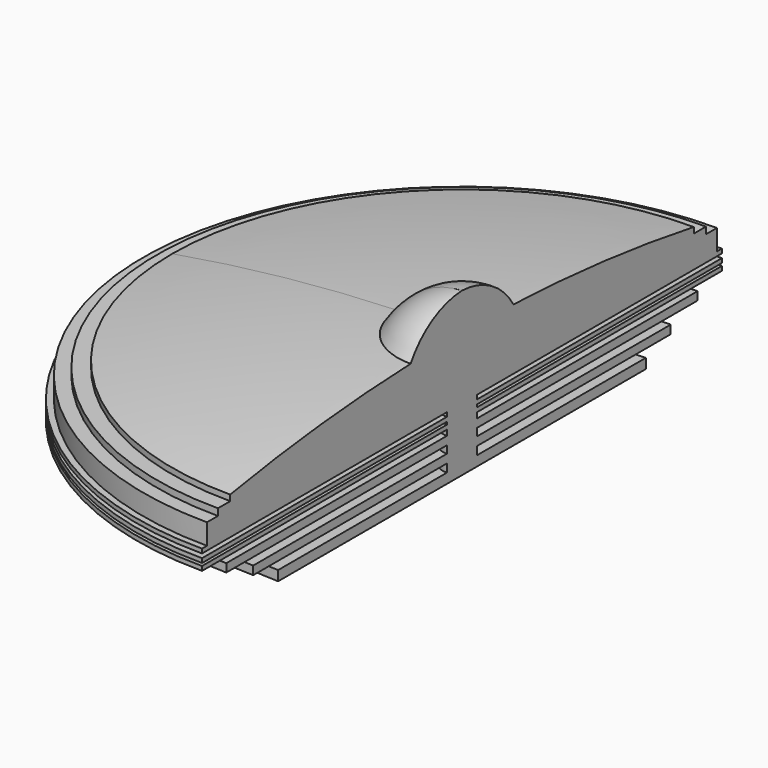
from build123d import *

# Parameters (mm, degrees)
F1_ANGLE = 180


with BuildPart() as f1:
    # F0 (on Front) → F1 (revolve, symmetric)
    with BuildSketch(Plane.XZ) as f1_sk:
        with BuildLine():
            ThreePointArc((0, 30.803572), (-18.440194, 25.31283), (-32.030215, 11.692979))
            ThreePointArc((-32.030215, 11.692979), (-88.427969, 7.748444), (-144.43, 0))
            Line((-144.43, 0), (-144.43, -2.923845))
            Line((-144.43, -2.923845), (-152.072906, -2.923845))
            Line((-152.072906, -2.923845), (-152.072906, -6.280784))
            Line((-152.072906, -6.280784), (-158.882275, -6.280784))
            Line((-158.882275, -6.280784), (-158.882275, -16.601332))
            Line((-158.882275, -16.601332), (-161.965355, -16.601332))
            Line((-161.965355, -16.601332), (-161.965355, -18.728437))
            Line((-161.965355, -18.728437), (-98.16052, -18.728437))
            Line((-98.16052, -18.728437), (-89.396238, -18.728437))
            Line((-89.396238, -18.728437), (-9.44094, -18.728437))
            Line((-9.44094, -18.728437), (-9.44094, -20.785369))
            Line((-9.44094, -20.785369), (-98.16052, -20.785369))
            Line((-98.16052, -20.785369), (-161.965355, -20.785369))
            Line((-161.965355, -20.785369), (-161.965355, -22.931492))
            Line((-161.965355, -22.931492), (-9.44094, -22.931492))
            Line((-9.44094, -22.931492), (-9.44094, -24.223654))
            Line((-9.44094, -24.223654), (-98.16052, -24.223654))
            Line((-98.16052, -24.223654), (-161.965355, -24.223654))
            Line((-161.965355, -24.223654), (-161.965355, -26.381157))
            Line((-161.965355, -26.381157), (-98.16052, -26.381157))
            Line((-98.16052, -26.381157), (-9.44094, -26.381157))
            Line((-9.44094, -26.381157), (-9.44094, -29.130537))
            Line((-9.44094, -29.130537), (-98.16052, -29.130537))
            Line((-98.16052, -29.130537), (-146.845251, -29.130537))
            Line((-146.845251, -29.130537), (-146.845251, -33.25239))
            Line((-146.845251, -33.25239), (-98.16052, -33.25239))
            Line((-98.16052, -33.25239), (-9.44094, -33.25239))
            Line((-9.44094, -33.25239), (-9.44094, -36.989525))
            Line((-9.44094, -36.989525), (-98.16052, -36.989525))
            Line((-98.16052, -36.989525), (-130.077675, -36.989525))
            Line((-130.077675, -36.989525), (-130.077675, -41.224036))
            Line((-130.077675, -41.224036), (-98.16052, -41.224036))
            Line((-98.16052, -41.224036), (-9.44094, -41.224036))
            Line((-9.44094, -41.224036), (-9.44094, -45.27729))
            Line((-9.44094, -45.27729), (-98.16052, -45.27729))
            Line((-98.16052, -45.27729), (-114.55325, -45.27729))
            Line((-114.55325, -45.27729), (-114.55325, -50.215658))
            Line((-114.55325, -50.215658), (0, -50.215658))
            Line((0, -50.215658), (0, 0))
            Line((0, 0), (0, 2.443223))
            Line((0, 2.443223), (0, 30.803572))
        make_face()
    revolve(axis=Axis((0, 0, 15.401786), (0, 0, -1)), revolution_arc=F1_ANGLE / 2)
    revolve(f1_sk.sketch, axis=Axis((0, 0, 15.401786), (0, 0, 1)), revolution_arc=F1_ANGLE / 2)


solid = f1.part
